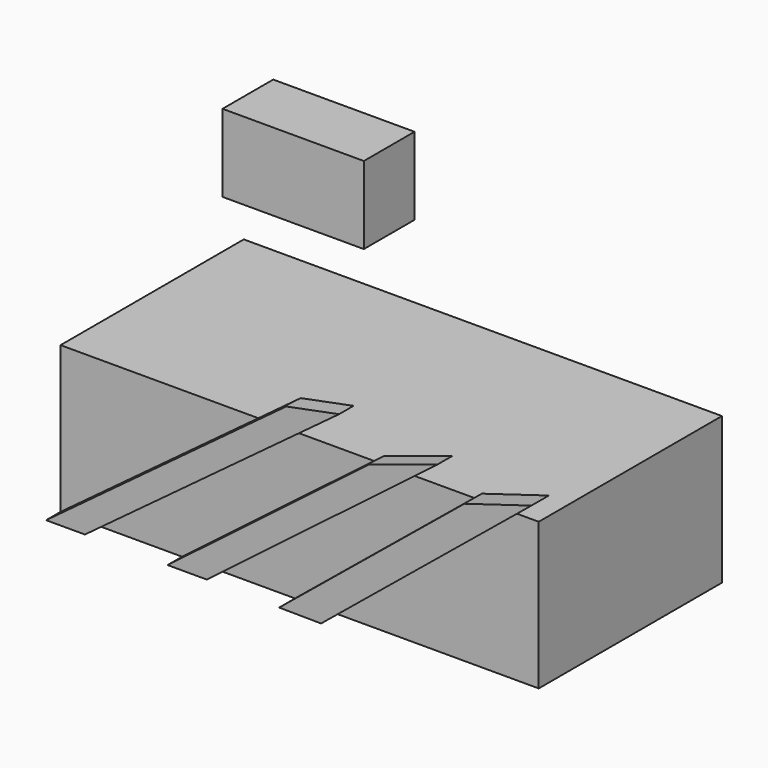
from build123d import *

# Parameters (mm, degrees)
F0_W     = 261.5295350552
F0_H     = 125.2499073744
F1_DEPTH = 80.264
F2_W     = 77.2916898131
F2_H     = 34.648001194
F3_DEPTH = 42.418
F5_DEPTH = 9.906
F6_DEPTH = 9.906
F8_DEPTH = 11.938


with BuildPart() as f1:
    # F0 (on Top) → F1 (new body)
    with BuildSketch(Plane.XY):
        with Locations((130.7647675276, -62.6249536872)):
            Rectangle(F0_W, F0_H)
    extrude(amount=-F1_DEPTH)

    # F4 (on face) → F5 (join)
    with BuildSketch(Plane.XZ.offset(125.2499073744)):
        Polygon((108.1656721705, 0), (0, -80.264), (21.2426222861, -80.264), (129.4082944565, 0), align=None)
    extrude(amount=F5_DEPTH)

    # F4 (on face) → F6 (join)
    with BuildSketch(Plane.XZ.offset(125.2499073744)):
        Polygon((131.3489079475, 17.2030478716), (108.1656721705, 0), (129.4082944565, 0), (160.2432873569, 22.8810104028), align=None)
        Polygon((171.4400309796, 0), (66.4488598704, -80.264), (87.933011353, -80.264), (192.9241824621, 0), align=None)
        Polygon((176.5551269054, 3.9104055613), (171.4400309796, 0), (192.9241824621, 0), (214.1415250586, 16.2203046997), align=None)
    extrude(amount=F6_DEPTH)

    # F7 (on face) → F8 (join)
    with BuildSketch(Plane.XZ.offset(125.2499073744)):
        Polygon((230.4361462593, 3.4204390831), (226.2577506167, 0), (249.4418286874, 0), (267.0718695542, 14.4319700613), align=None)
        Polygon((226.2577506167, 0), (129.1061639786, -79.5283913612), (152.0391106606, -79.7339677811), (249.4418286874, 0), align=None)
    extrude(amount=F8_DEPTH)


with BuildPart() as f3:
    # F2 (on Top) → F3 (new body)
    with BuildSketch(Plane.XY):
        with Locations((7.0139430463, 42.3481091857)):
            Rectangle(F2_W, F2_H)
    extrude(amount=F3_DEPTH)


solid = Compound([f1.part, f3.part])
